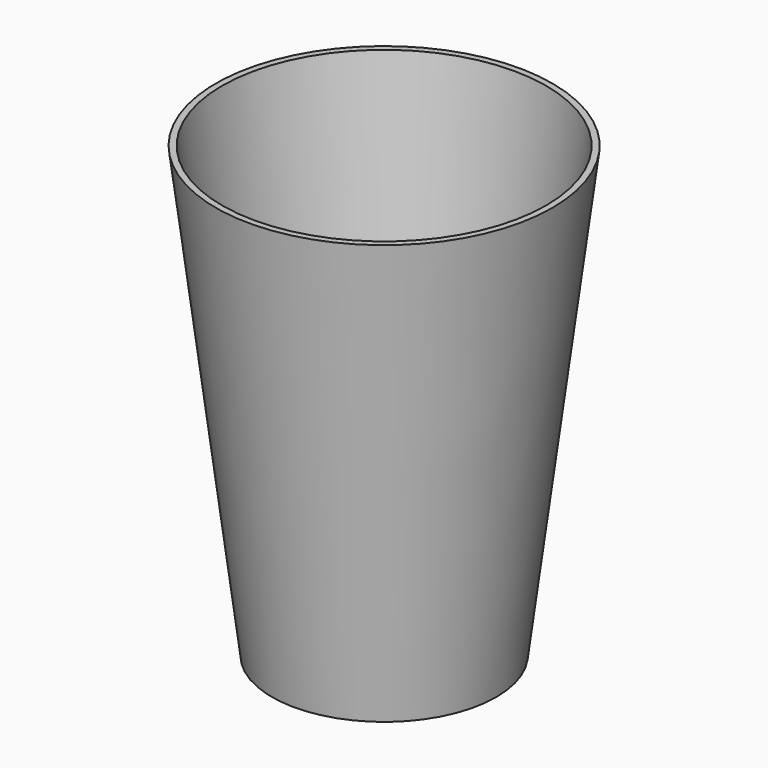
from build123d import *


with BuildPart() as cono001:
    # Cone001 → Cone001 (revolve)
    with BuildSketch(Plane(origin=(0, 0, 1), x_dir=(1, 0, 0), z_dir=(0, -1, 0))):
        Polygon((0, 0), (19, 0), (29, 80), (0, 80), align=None)
    revolve(axis=Axis((0, 0, 1), (0, 0, 1)))


with BuildPart() as cut:
    # Cone → Cone (revolve)
    with BuildSketch(Plane.XZ):
        Polygon((0, 0), (20, 0), (30, 80), (0, 80), align=None)
    revolve(axis=Axis((0, 0, 0), (0, 0, 1)))

    # Cut: cut Cono001
    add(cono001.part, mode=Mode.SUBTRACT)


solid = cut.part
